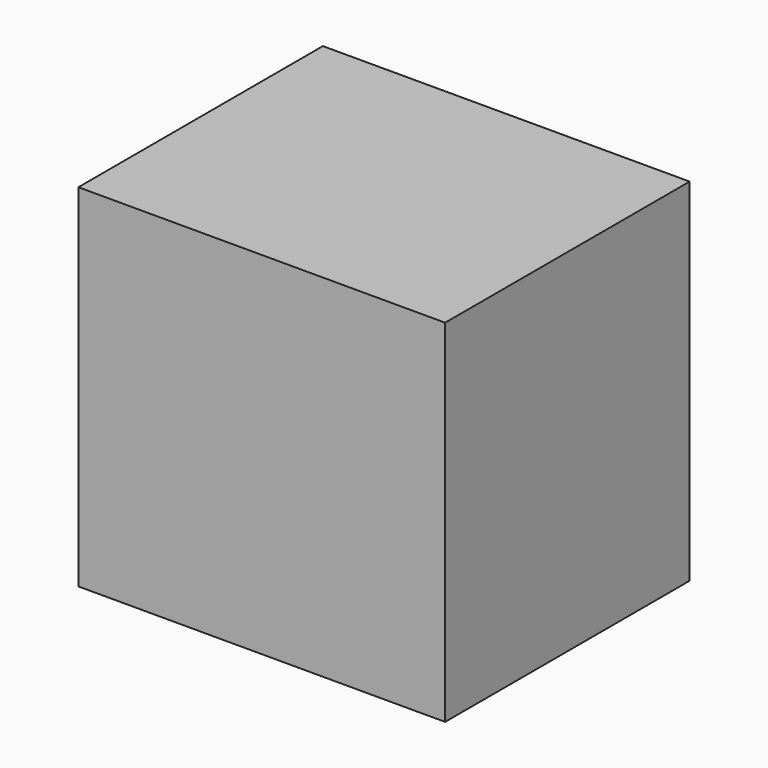
from build123d import *

# Parameters (mm, degrees)
F0_W      = 70
F0_H      = 40
F1_DEPTH  = 25
F2_DEPTH  = 25
F3_DEPTH  = 25
F4_DEPTH  = 25
F5_DEPTH  = 25
F6_DEPTH  = 25
F7_DEPTH  = 25
F8_DEPTH  = 25
F9_DEPTH  = 25
F10_T     = -2.5
F11_W     = 111.0436096787
F11_H     = 98.0712249875
F12_DEPTH = 25


with BuildPart() as f1:
    # F0 (on Front) → F1 (new body)
    with BuildSketch(Plane.XZ):
        with Locations((-3.5461261868, 0)):
            Rectangle(F0_W, F0_H)
    extrude(amount=F1_DEPTH)

    # F2 (add): a face of the model
    f2_faces = [f1.faces().sort_by_distance(p)[0] for p in [
        (-38.5461261868, -12.5, 0),
    ]]
    extrude(f2_faces, amount=F2_DEPTH)

    # F3 (add): a face of the model
    f3_faces = [f1.faces().sort_by_distance(p)[0] for p in [
        (-63.5461261868, -12.5, 0),
    ]]
    extrude(f3_faces, amount=F3_DEPTH)

    # F4 (add): a face of the model
    f4_faces = [f1.faces().sort_by_distance(p)[0] for p in [
        (-28.5461261868, -12.5, 20),
    ]]
    extrude(f4_faces, amount=F4_DEPTH)

    # F5 (add): a face of the model
    f5_faces = [f1.faces().sort_by_distance(p)[0] for p in [
        (-28.5461261868, -12.5, 45),
    ]]
    extrude(f5_faces, amount=F5_DEPTH)

    # F6 (add): a face of the model
    f6_faces = [f1.faces().sort_by_distance(p)[0] for p in [
        (-28.5461261868, -25, 25),
    ]]
    extrude(f6_faces, amount=F6_DEPTH)

    # F7 (add): a face of the model
    f7_faces = [f1.faces().sort_by_distance(p)[0] for p in [
        (-28.5461261868, -50, 25),
    ]]
    extrude(f7_faces, amount=F7_DEPTH)

    # F8 (add): a face of the model
    f8_faces = [f1.faces().sort_by_distance(p)[0] for p in [
        (-28.5461261868, 0, 25),
    ]]
    extrude(f8_faces, amount=F8_DEPTH)

    # F9 (add): a face of the model
    f9_faces = [f1.faces().sort_by_distance(p)[0] for p in [
        (-28.5461261868, -25, 70),
    ]]
    extrude(f9_faces, amount=F9_DEPTH)

    # F10
    f10_openings = [f1.faces().sort_by_distance(p)[0] for p in [
        (-28.546126, 25, 37.5),
    ]]
    offset(amount=F10_T, openings=f10_openings)

    # F11 (on face) → F12 (join)
    with BuildSketch(Plane(origin=(0, -72.5, 0), x_dir=(-1, 0, 0), z_dir=(0, 1, 0))):
        with Locations((27.7883224189, 40.0959290564)):
            Rectangle(F11_W, F11_H)
    extrude(amount=F12_DEPTH)


solid = f1.part
